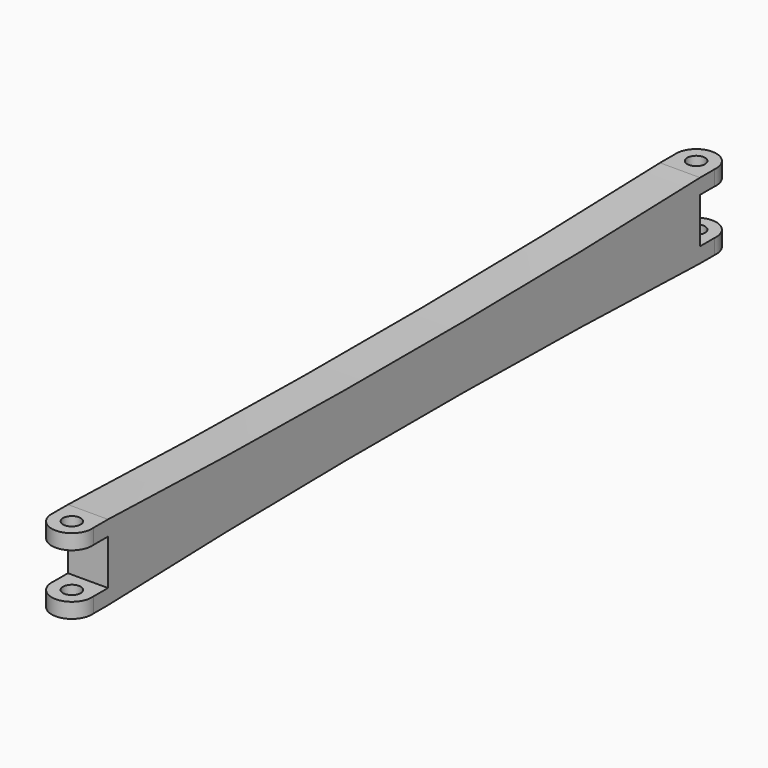
from build123d import *

# Parameters (mm, degrees)
F0_R     = 1.75
F1_DEPTH = 25
F3_DEPTH = 12.5


with BuildPart() as f1:
    # F0 (on Top) → F1 (new body)
    with BuildSketch(Plane.XY):
        with BuildLine():
            Line((3.980159, 0.397914), (3.980159, 154.602086))
            ThreePointArc((3.980159, 154.602086), (0, 159), (-3.980159, 154.602086))
            Line((-3.980159, 154.602086), (-3.980159, 0.397914))
            ThreePointArc((-3.980159, 0.397914), (0, -4), (3.980159, 0.397914))
        make_face()
        Circle(F0_R, mode=Mode.SUBTRACT)
        with Locations((0, 155)):
            Circle(F0_R, mode=Mode.SUBTRACT)
    extrude(amount=F1_DEPTH)

    # F2 (on Right) → F3 (intersect, symmetric)
    with BuildSketch(Plane.YZ):
        with BuildLine():
            Line((-4, 0), (0, 0))
            Line((0, 0), (4, 0))
            ThreePointArc((4, 0), (77.5, 1.351019), (151, 0))
            Line((151, 0), (159, 0))
            Line((159, 0), (159, 3))
            Line((159, 3), (151, 3))
            Line((151, 3), (151, 12))
            Line((151, 12), (159, 12))
            Line((159, 12), (159, 15))
            Line((159, 15), (151, 15))
            ThreePointArc((151, 15), (77.5, 13.648981), (4, 15))
            Line((4, 15), (-4, 15))
            Line((-4, 15), (-4, 12))
            Line((-4, 12), (4, 12))
            Line((4, 12), (4, 3))
            Line((4, 3), (-4, 3))
            Line((-4, 3), (-4, 0))
        make_face()
    extrude(amount=F3_DEPTH, both=True, mode=Mode.INTERSECT)


solid = f1.part
